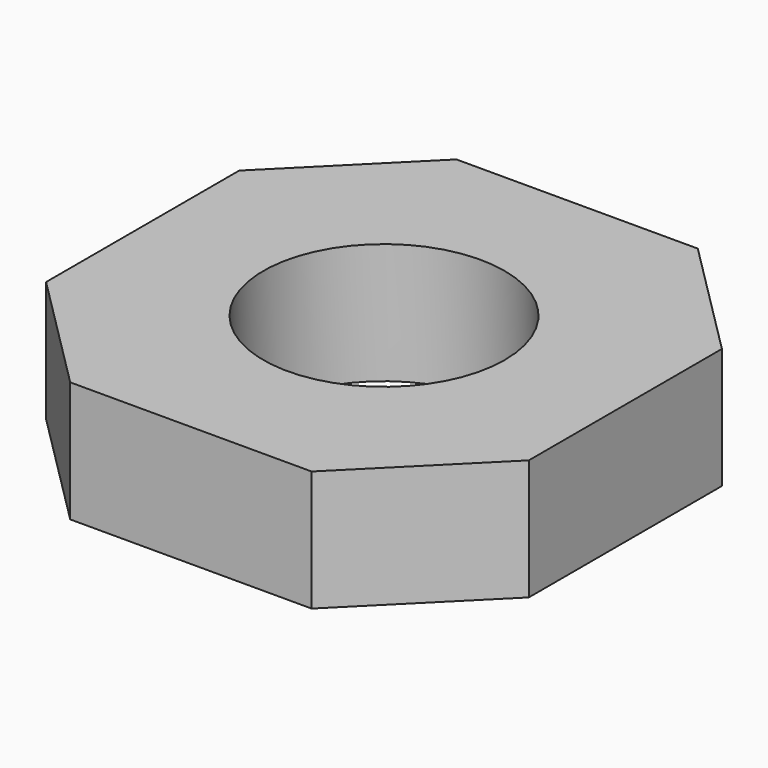
from build123d import *

# Parameters (mm, degrees)
F1_DEPTH = 25.4
F2_R     = 25.4
F3_DEPTH = 25.4


with BuildPart() as f1:
    # F0 (on Top) → F1 (new body)
    with BuildSketch(Plane.XY):
        Polygon((-50.8, 25.4), (-50.8, -25.4), (-25.4, -50.8), (25.4, -50.8), (50.8, -25.4), (50.8, 25.4), (25.4, 50.8), (-25.4, 50.8), align=None)
    extrude(amount=F1_DEPTH)

    # F2 (on face) → F3 (cut)
    with BuildSketch(Plane.XY.offset(25.4)):
        Circle(F2_R)
    extrude(amount=-F3_DEPTH, mode=Mode.SUBTRACT)


solid = f1.part
